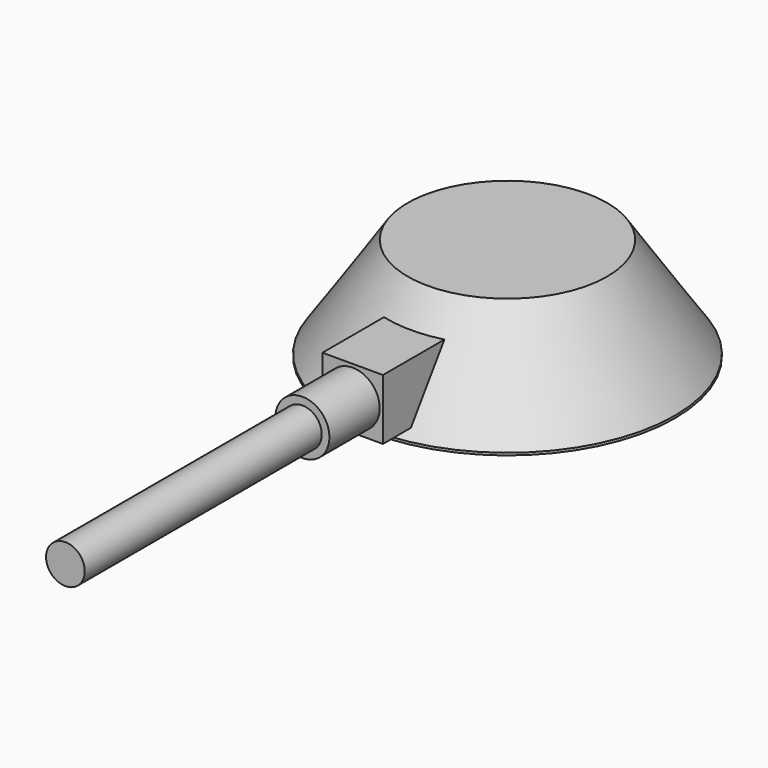
from build123d import *

# Parameters (mm, degrees)
F0_R      = 7.0358
F1_DEPTH  = 4.318
F2_SIZE2  = 4.2175894432
F2_SIZE   = 2.8448
F3_W      = 2.54
F3_H      = 2.5500503834
F4_DEPTH  = 8.128
F5_R      = 1.1351249509
F6_DEPTH  = 2.6416
F7_R      = 4.6971074758
F8_DEPTH  = 0.5588
F9_R      = 0.8130420693
F10_DEPTH = 12.446


with BuildPart() as f1:
    # F0 (on Top) → F1 (new body)
    with BuildSketch(Plane.XY):
        Circle(F0_R)
    extrude(amount=F1_DEPTH)

    # F2
    f2_edges = [f1.edges().sort_by_distance(p)[0] for p in [
        (-7.0358, 0, 4.318),
    ]]
    f2_side = f1.faces().sort_by_distance((0, 0, 4.318))[0]
    chamfer(f2_edges, length=F2_SIZE, length2=F2_SIZE2, reference=f2_side)

    # F3 (on Front) → F4 (join)
    with BuildSketch(Plane.XZ):
        with Locations((0, 1.7557573738)):
            Rectangle(F3_W, F3_H)
    extrude(amount=F4_DEPTH)

    # F5 (on face) → F6 (join)
    with BuildSketch(Plane.XZ.offset(8.128)):
        with Locations((0, 1.7557573738)):
            Circle(F5_R)
    extrude(amount=F6_DEPTH)

    # F7 (on face) → F8 (cut)
    with BuildSketch(Plane(origin=(0, 0, 0), x_dir=(1, 0, 0), z_dir=(0, 0, -1))):
        Circle(F7_R)
    extrude(amount=-F8_DEPTH, mode=Mode.SUBTRACT)

    # F9 (on face) → F10 (join)
    with BuildSketch(Plane.XZ.offset(10.7696)):
        with Locations((0, 1.7557573738)):
            Circle(F9_R)
    extrude(amount=F10_DEPTH)


solid = f1.part
